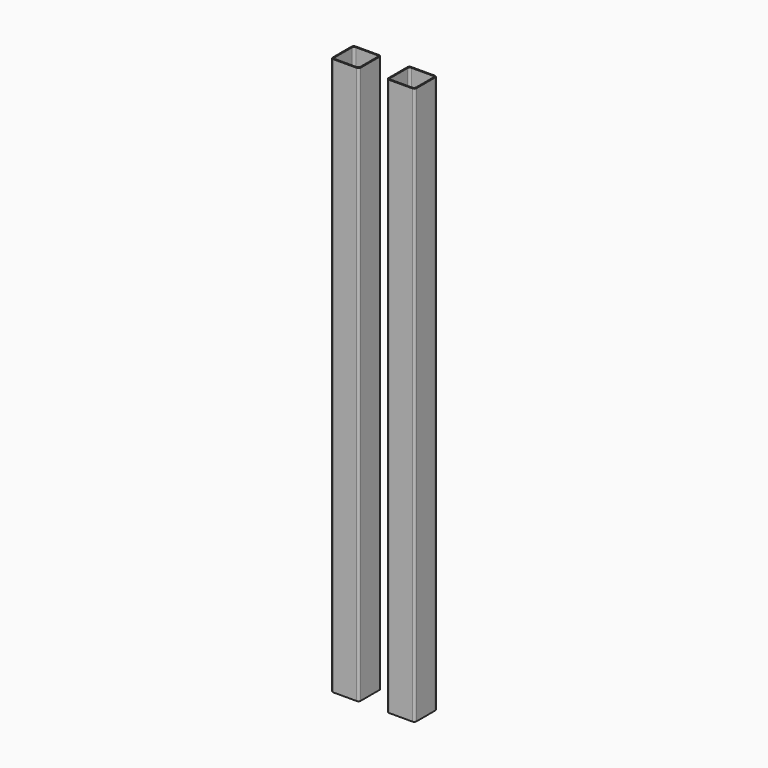
from build123d import *

# Parameters (mm, degrees)
F0_W     = 50
F0_H     = 50
F0_W_2   = 46
F0_H_2   = 46
F1_DEPTH = 500
F2_R     = 4


with BuildPart() as f1:
    # F0 (on Top) → F1 (new body, symmetric)
    with BuildSketch(Plane.XY):
        Rectangle(F0_W, F0_H)
        Rectangle(F0_W_2, F0_H_2, mode=Mode.SUBTRACT)
    extrude(amount=F1_DEPTH, both=True)

    # F2
    f2_edges = [f1.edges().sort_by_distance(p)[0] for p in [
        (25, 25, 0),
        (25, -25, 0),
        (-25, 25, 0),
        (-25, -25, 0),
        (-23, -23, 0),
        (-23, 23, 0),
        (23, 23, 0),
        (23, -23, 0),
    ]]
    fillet(f2_edges, radius=F2_R)


with BuildPart() as f3_1:
    # F3: copy of F1
    add(f1.part.moved(Location((-100, 0, 0))))


solid = Compound([f1.part, f3_1.part])
